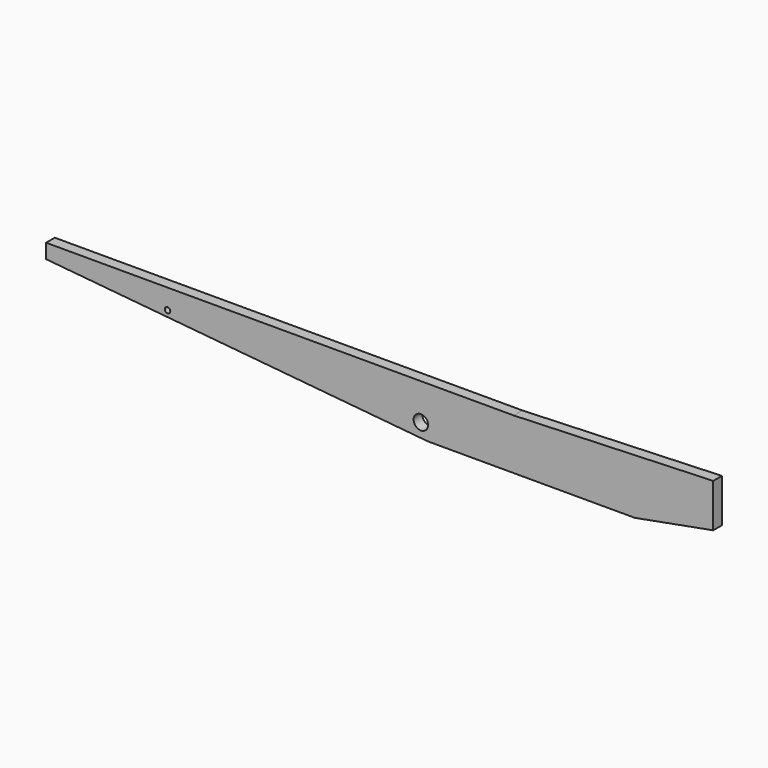
from build123d import *

# Parameters (mm, degrees)
F0_R     = 25.4
F0_R_2   = 9.525
F1_DEPTH = 38.1


with BuildPart() as f1:
    # F0 (on Front) → F1 (new body)
    with BuildSketch(Plane.XZ):
        Polygon((300.096595, -135.002792), (-1338.203405, -135.002792), (-1338.203405, -185.802792), (0, -312.802792), (723.9, -312.802792), (998.643007, -262.002792), (998.643007, -109.602792), align=None)
        with Locations((-25.340905, -262.002792)):
            Circle(F0_R, mode=Mode.SUBTRACT)
        with Locations((-912.753405, -204.852792)):
            Circle(F0_R_2, mode=Mode.SUBTRACT)
    extrude(amount=F1_DEPTH)


solid = f1.part
